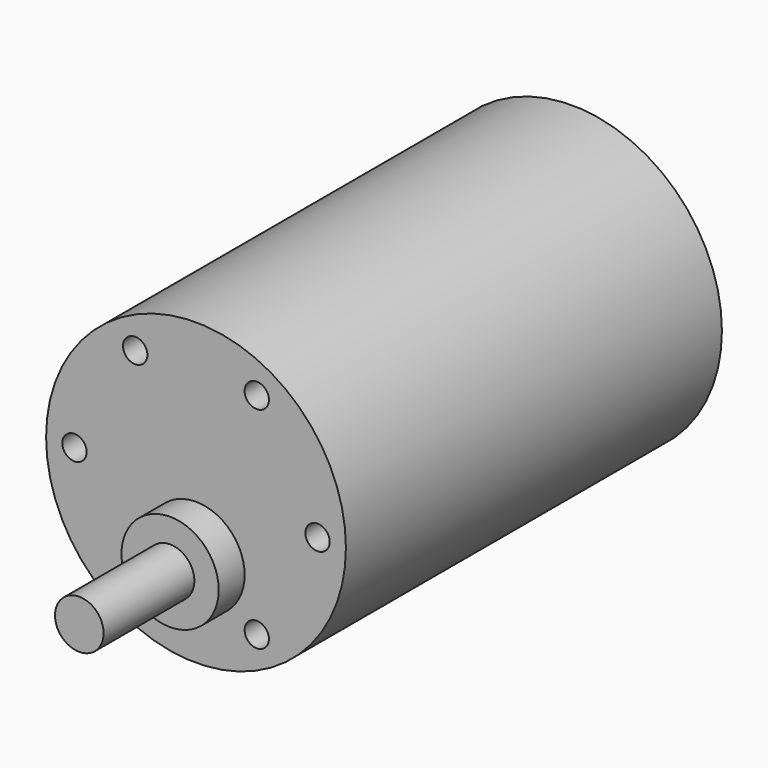
from build123d import *

# Parameters (mm, degrees)
F0_R     = 18.5
F0_R_2   = 1.5
F0_R_3   = 6
F0_R_4   = 3
F1_DEPTH = 58
F2_DEPTH = 4
F3_DEPTH = 18
F4_DEPTH = 25


with BuildPart() as f1:
    # F0 (on Front) → F1 (new body)
    with BuildSketch(Plane.XZ):
        Circle(F0_R)
        with Locations((-7.5, -12.990381)):
            Circle(F0_R_2, mode=Mode.SUBTRACT)
        with Locations((7.5, -12.990381)):
            Circle(F0_R_2, mode=Mode.SUBTRACT)
        with Locations((0, -7)):
            Circle(F0_R_3, mode=Mode.SUBTRACT)
        with Locations((-15, 0)):
            Circle(F0_R_2, mode=Mode.SUBTRACT)
        with Locations((-7.5, 12.990381)):
            Circle(F0_R_2, mode=Mode.SUBTRACT)
        with Locations((15, 0)):
            Circle(F0_R_2, mode=Mode.SUBTRACT)
        with Locations((7.5, 12.990381)):
            Circle(F0_R_2, mode=Mode.SUBTRACT)
        with Locations((0, -7)):
            Circle(F0_R_3)
        with Locations((0, -7)):
            Circle(F0_R_4, mode=Mode.SUBTRACT)
        with Locations((0, -7)):
            Circle(F0_R_4)
        with Locations((-7.5, 12.990381)):
            Circle(F0_R_2)
        with Locations((7.5, 12.990381)):
            Circle(F0_R_2)
        with Locations((15, 0)):
            Circle(F0_R_2)
        with Locations((7.5, -12.990381)):
            Circle(F0_R_2)
        with Locations((-7.5, -12.990381)):
            Circle(F0_R_2)
        with Locations((-15, 0)):
            Circle(F0_R_2)
    extrude(amount=-F1_DEPTH)

    # F0 (on Front) → F2 (join)
    with BuildSketch(Plane.XZ):
        with Locations((0, -7)):
            Circle(F0_R_3)
        with Locations((0, -7)):
            Circle(F0_R_4, mode=Mode.SUBTRACT)
        with Locations((0, -7)):
            Circle(F0_R_4)
    extrude(amount=F2_DEPTH)

    # F0 (on Front) → F3 (join)
    with BuildSketch(Plane.XZ):
        with Locations((0, -7)):
            Circle(F0_R_4)
    extrude(amount=F3_DEPTH)

    # F0 (on Front) → F4 (cut)
    with BuildSketch(Plane.XZ):
        with Locations((7.5, 12.990381)):
            Circle(F0_R_2)
        with Locations((-7.5, 12.990381)):
            Circle(F0_R_2)
        with Locations((-15, 0)):
            Circle(F0_R_2)
        with Locations((7.5, -12.990381)):
            Circle(F0_R_2)
        with Locations((15, 0)):
            Circle(F0_R_2)
        with Locations((-7.5, -12.990381)):
            Circle(F0_R_2)
    extrude(amount=-F4_DEPTH, mode=Mode.SUBTRACT)


solid = f1.part
